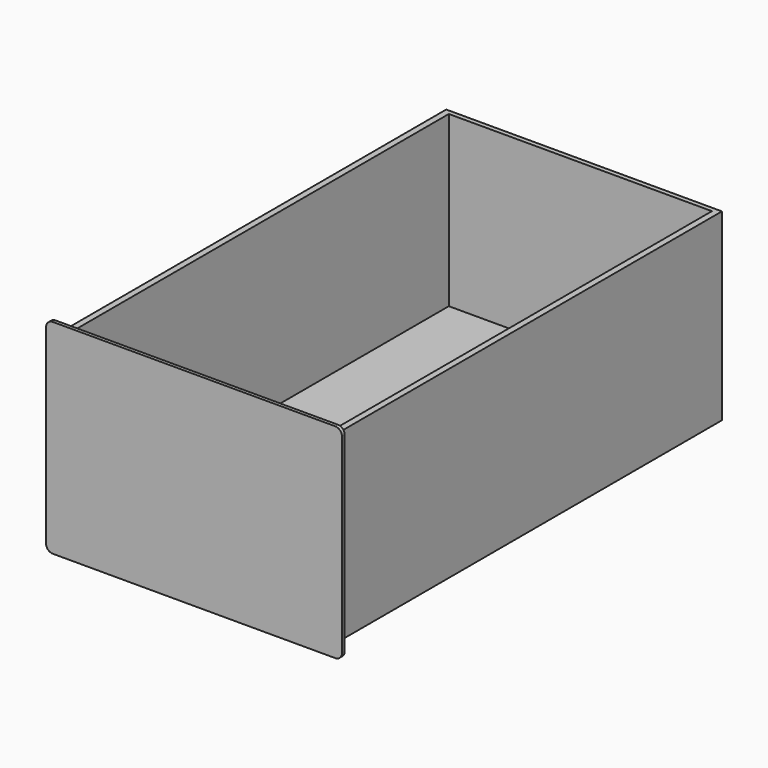
from build123d import *

# Parameters (mm, degrees)
F0_W     = 520.7
F0_H     = 347.345
F1_DEPTH = 914.4
F2_T     = -11.90625
F4_DEPTH = 6.35
F5_W     = 496.8875
F5_H     = 3.175
F6_DEPTH = 366.396
F7_W     = 503.2375
F7_H     = 8.73125
F8_DEPTH = 914.4


with BuildPart() as f1:
    # F0 (on Front) → F1 (new body)
    with BuildSketch(Plane.XZ):
        with Locations((260.35, 173.6725)):
            Rectangle(F0_W, F0_H)
    extrude(amount=F1_DEPTH)

    # F2
    f2_openings = [f1.faces().sort_by_distance(p)[0] for p in [
        (260.35, -457.2, 347.345),
        (260.35, -457.2, 0),
    ]]
    offset(amount=F2_T, openings=f2_openings)

    # F3 (on face) → F4 (join)
    with BuildSketch(Plane.XZ.offset(914.4)):
        with BuildLine():
            ThreePointArc((-19.05, -6.35), (-15.330256, -15.330256), (-6.35, -19.05))
            Line((-6.35, -19.05), (527.05, -19.05))
            ThreePointArc((527.05, -19.05), (536.030256, -15.330256), (539.75, -6.35))
            Line((539.75, -6.35), (539.75, 353.695))
            ThreePointArc((539.75, 353.695), (536.030256, 362.675256), (527.05, 366.395))
            Line((527.05, 366.395), (-6.35, 366.395))
            ThreePointArc((-6.35, 366.395), (-15.330256, 362.675256), (-19.05, 353.695))
            Line((-19.05, 353.695), (-19.05, -6.35))
        make_face()
    extrude(amount=F4_DEPTH)

    # F5 (on face) → F6 (cut, through all)
    with BuildSketch(Plane.XY.offset(347.345)):
        with Locations((260.35, -10.31875)):
            Rectangle(F5_W, F5_H)
    extrude(amount=-F6_DEPTH, mode=Mode.SUBTRACT)

    # F7 (on face) → F8 (join, through all)
    with BuildSketch(Plane(origin=(0, 0, 0), x_dir=(-1, 0, 0), z_dir=(0, 1, 0))):
        with Locations((-260.35, 23.415625)):
            Rectangle(F7_W, F7_H)
    extrude(amount=-F8_DEPTH)


solid = f1.part
